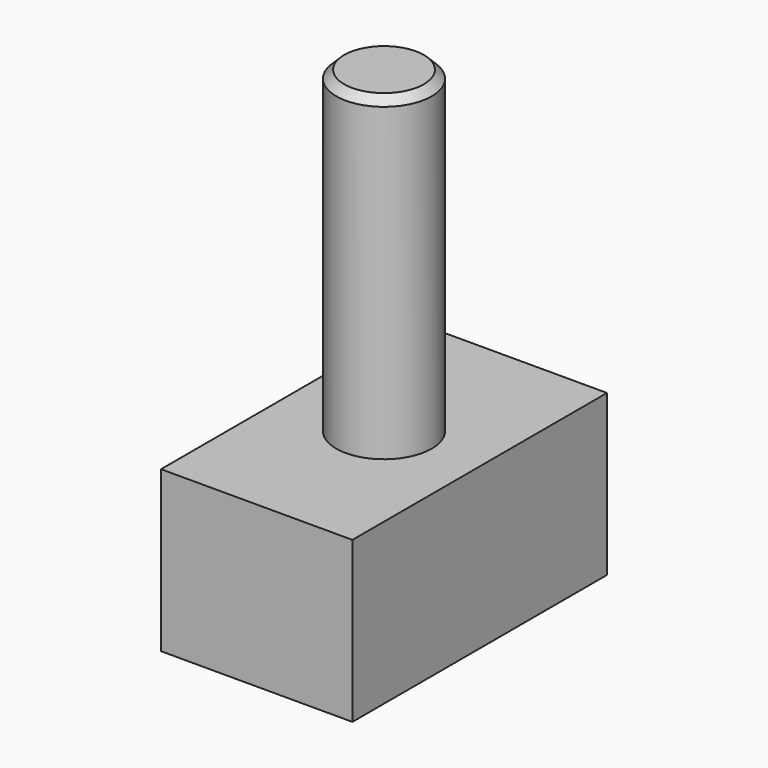
from build123d import *

# Parameters (mm, degrees)
F1_DEPTH = 101.6
F2_R     = 15.24
F3_DEPTH = 101.6
F4_SIZE  = 2.54


with BuildPart() as f1:
    # F0 (on Front) → F1 (new body)
    with BuildSketch(Plane.XZ):
        Polygon((27.494166, 29.467992), (0, 29.467992), (-33.607345, 29.467992), (-33.607345, -21.700272), (27.494166, -21.700272), align=None)
    extrude(amount=F1_DEPTH)

    # F2 (on face) → F3 (join)
    with BuildSketch(Plane.XY.offset(29.467992)):
        with Locations((-3.05659, -50.8)):
            Circle(F2_R)
    extrude(amount=F3_DEPTH)

    # F4
    f4_edges = [f1.edges().sort_by_distance(p)[0] for p in [
        (-18.29659, -50.8, 131.067992),
    ]]
    chamfer(f4_edges, length=F4_SIZE)


solid = f1.part
